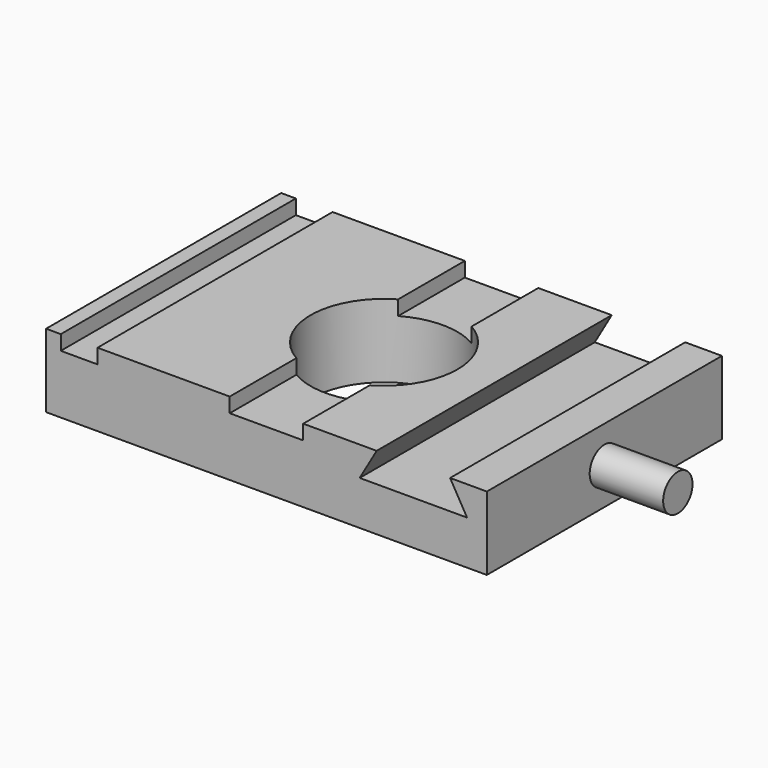
from build123d import *

# Parameters (mm, degrees)
F0_W     = 76.2
F0_H     = 50.8
F0_R     = 12.7
F1_DEPTH = 12.7
F2_W     = 6.35
F2_H     = 50.8
F3_DEPTH = 2.54
F5_DEPTH = 50.8
F6_R     = 3.175
F7_DEPTH = 12.7


with BuildPart() as f1:
    # F0 (on Top) → F1 (new body)
    with BuildSketch(Plane.XY):
        Rectangle(F0_W, F0_H)
        Circle(F0_R, mode=Mode.SUBTRACT)
    extrude(amount=F1_DEPTH)

    # F2 (on face) → F3 (cut)
    with BuildSketch(Plane.XY.offset(12.7)):
        with BuildLine():
            ThreePointArc((6.35, 10.9985226281), (0, 12.7), (-6.35, 10.9985226281))
            Line((-6.35, 10.9985226281), (-6.35, -10.9985226281))
            ThreePointArc((-6.35, -10.9985226281), (0, -12.7), (6.35, -10.9985226281))
            Line((6.35, -10.9985226281), (6.35, 10.9985226281))
        make_face()
        with Locations((-32.385, 0)):
            Rectangle(F2_W, F2_H)
        with BuildLine():
            Line((-6.35, -10.9985226281), (-6.35, -25.4))
            Line((-6.35, -25.4), (6.35, -25.4))
            Line((6.35, -25.4), (6.35, -10.9985226281))
            ThreePointArc((6.35, -10.9985226281), (0, -12.7), (-6.35, -10.9985226281))
        make_face()
        with BuildLine():
            Line((6.35, 25.4), (-6.35, 25.4))
            Line((-6.35, 25.4), (-6.35, 10.9985226281))
            ThreePointArc((-6.35, 10.9985226281), (0, 12.7), (6.35, 10.9985226281))
            Line((6.35, 10.9985226281), (6.35, 25.4))
        make_face()
    extrude(amount=-F3_DEPTH, mode=Mode.SUBTRACT)

    # F4 (on face) → F5 (cut, through all)
    with BuildSketch(Plane.XZ.offset(25.4)):
        Polygon((31.75, 12.7), (19.05, 12.7), (16.1170606325, 7.62), (34.6829393675, 7.62), align=None)
    extrude(amount=-F5_DEPTH, mode=Mode.SUBTRACT)

    # F6 (on face) → F7 (join)
    with BuildSketch(Plane.YZ.offset(38.1)):
        with Locations((0, 6.35)):
            Circle(F6_R)
    extrude(amount=F7_DEPTH)


solid = f1.part
